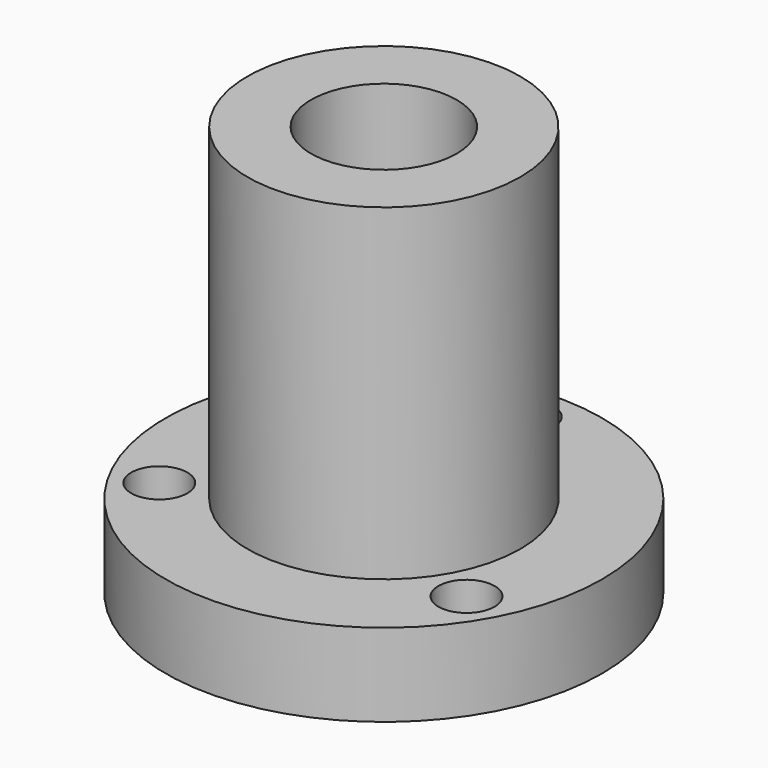
from build123d import *

# Parameters (mm, degrees)
F0_R     = 10.16
F1_DEPTH = 3.8608
F2_R     = 6.35
F3_DEPTH = 15.24
F4_R     = 1.3081
F5_DEPTH = 3.8608
F6_R     = 3.3909
F7_DEPTH = 19.1008


with BuildPart() as f1:
    # F0 (on Top) → F1 (new body)
    with BuildSketch(Plane.XY):
        Circle(F0_R)
    extrude(amount=F1_DEPTH)

    # F2 (on face) → F3 (join)
    with BuildSketch(Plane.XY.offset(3.8608)):
        Circle(F2_R)
    extrude(amount=F3_DEPTH)

    # F4 (on face) → F5 (cut, through all)
    with BuildSketch(Plane.XY.offset(3.8608)):
        with BuildLine():
            ThreePointArc((0, 6.9469), (0.924966, 7.330034), (1.3081, 8.255))
            ThreePointArc((1.3081, 8.255), (0.924966, 9.179966), (0, 9.5631))
            Line((0, 9.5631), (0, 6.9469))
        make_face()
        with BuildLine():
            Line((0, 6.9469), (0, 9.5631))
            ThreePointArc((0, 9.5631), (-1.3081, 8.255), (0, 6.9469))
        make_face()
        with Locations((-7.14904, -4.1275)):
            Circle(F4_R)
        with Locations((7.14904, -4.1275)):
            Circle(F4_R)
    extrude(amount=-F5_DEPTH, mode=Mode.SUBTRACT)

    # F6 (on face) → F7 (cut, through all)
    with BuildSketch(Plane.XY.offset(19.1008)):
        Circle(F6_R)
    extrude(amount=-F7_DEPTH, mode=Mode.SUBTRACT)


solid = f1.part
